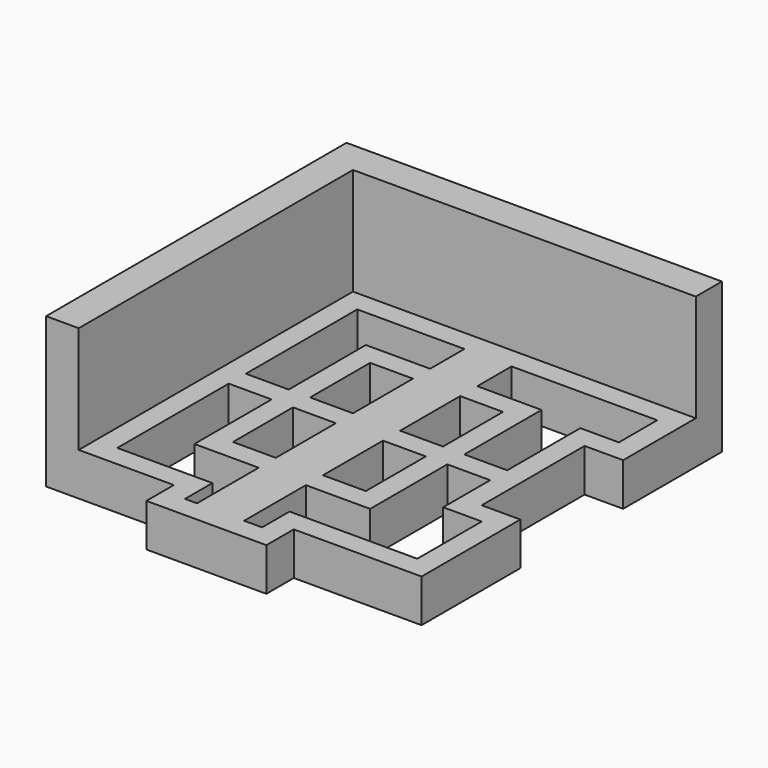
from build123d import *

# Parameters (mm, degrees)
F0_W     = 28
F0_H     = 8
F1_DEPTH = 10
F3_DEPTH = 25
F5_DEPTH = 10.001


with BuildPart() as f1:
    # F0 (on Top) → F1 (new body)
    with BuildSketch(Plane.XY):
        with Locations((0, -47.815)):
            Rectangle(F0_W, F0_H)
        Polygon((43.815, 15), (43.815, 43.815), (-43.815, 43.815), (-43.815, -43.815), (-14, -43.815), (-14, -35.815), (14, -35.815), (14, -43.815), (43.815, -43.815), (43.815, -15), (34.815, -15), (34.815, 15), align=None)
        with Locations((0, -39.815)):
            Rectangle(F0_W, F0_H)
    extrude(amount=F1_DEPTH)

    # F2 (on face) → F3 (join)
    with BuildSketch(Plane.XY.offset(10)):
        Polygon((43.815, 36.195), (43.815, 43.815), (-43.815, 43.815), (-43.815, -43.815), (-36.195, -43.815), (-36.195, 36.195), align=None)
    extrude(amount=F3_DEPTH)

    # F4 (on face) → F5 (cut, through all)
    with BuildSketch(Plane.XY.offset(10)):
        Polygon((-6.194999, 21.195), (-6.194999, 31.195), (-31.195, 31.195), (-31.195, -1.31), (-21.195, -1.31), (-21.195, 21.195), align=None)
        Polygon((38.815, 20), (38.815, 31.195), (4.814999, 31.195), (4.814999, 21.195), (19.815, 21.195), (19.815, -1.31), (29.815, -1.31), (29.815, 20), align=None)
        Polygon((14.814999, 16.194999), (4.814999, 16.194999), (4.814999, 6.194999), (4.814999, -1.31), (14.814999, -1.31), align=None)
        Polygon((-6.194999, 6.194999), (-6.194999, 16.194999), (-16.194999, 16.194999), (-16.194999, -1.31), (-6.194999, -1.31), align=None)
        Polygon((-6.194999, -6.31), (-16.194999, -6.31), (-16.194999, -23.814999), (-6.194999, -23.814999), (-6.194999, -13.814999), align=None)
        Polygon((-21.195, -6.31), (-31.195, -6.31), (-31.195, -38.815), (-9, -38.815), (-9, -46.815), (-6.194999, -46.815), (-6.194999, -28.815), (-21.195, -28.815), align=None)
        Polygon((29.815, -20), (29.815, -6.31), (19.815, -6.31), (19.815, -28.815), (4.814999, -28.815), (4.814999, -46.815), (9, -46.815), (9, -38.815), (38.815, -38.815), (38.815, -20), align=None)
        Polygon((14.814999, -23.814999), (14.814999, -6.31), (4.814999, -6.31), (4.814999, -13.814999), (4.814999, -23.814999), align=None)
    extrude(amount=-F5_DEPTH, mode=Mode.SUBTRACT)


solid = f1.part
